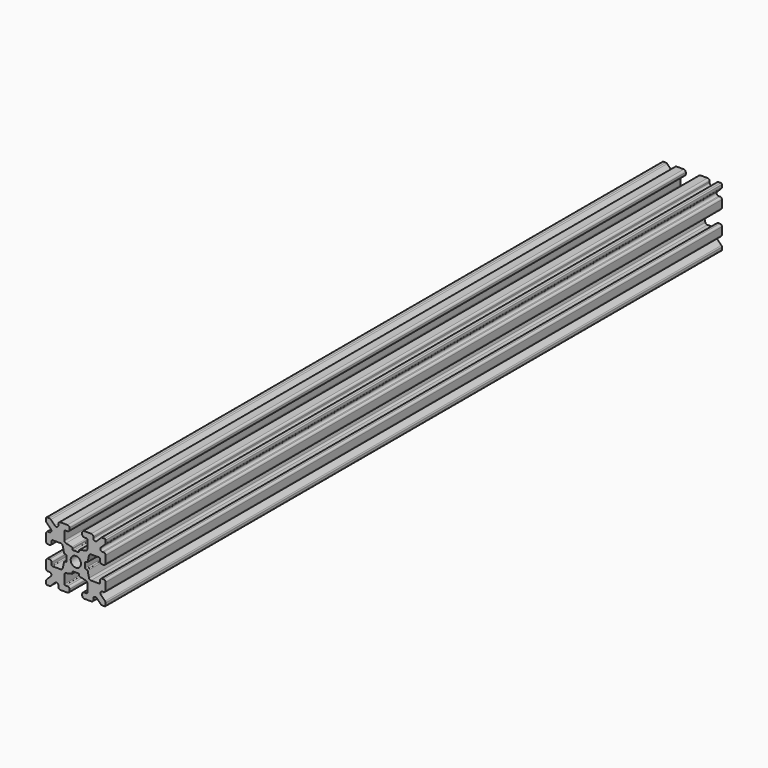
from build123d import *

# Parameters (mm, degrees)
F0_R     = 1.3
F1_DEPTH = 97


with BuildPart() as f1:
    # F0 (on Front) → F1 (new body, symmetric)
    with BuildSketch(Plane.XZ):
        with BuildLine():
            ThreePointArc((0.6255, -2.347065), (0.766921, -2.405643), (0.8255, -2.547065))
            Line((0.8255, -2.547065), (0.8255, -2.774891))
            ThreePointArc((0.8255, -2.774891), (0.869378, -2.899894), (0.981758, -2.970049))
            Line((0.981758, -2.970049), (2.509356, -3.312442))
            ThreePointArc((2.509356, -3.312442), (2.790306, -3.487829), (2.9, -3.800337))
            Line((2.9, -3.800337), (2.9, -5.9))
            ThreePointArc((2.9, -5.9), (2.841421, -6.041421), (2.7, -6.1))
            Line((2.7, -6.1), (2.1, -6.1))
            ThreePointArc((2.1, -6.1), (1.746447, -6.246447), (1.6, -6.6))
            Line((1.6, -6.6), (1.6, -7))
            ThreePointArc((1.6, -7), (1.746447, -7.353553), (2.1, -7.5))
            Line((2.1, -7.5), (3.9, -7.5))
            ThreePointArc((3.9, -7.5), (4.253553, -7.353553), (4.4, -7))
            Line((4.4, -7), (4.4, -6.667767))
            ThreePointArc((4.4, -6.667767), (4.708658, -6.205827), (5.253553, -6.314214))
            Line((5.253553, -6.314214), (6.292893, -7.353553))
            ThreePointArc((6.292893, -7.353553), (6.455105, -7.46194), (6.646447, -7.5))
            Line((6.646447, -7.5), (7.25, -7.5))
            ThreePointArc((7.25, -7.5), (7.426777, -7.426777), (7.5, -7.25))
            Line((7.5, -7.25), (7.5, -6.646447))
            ThreePointArc((7.5, -6.646447), (7.46194, -6.455105), (7.353553, -6.292893))
            Line((7.353553, -6.292893), (6.314214, -5.253553))
            ThreePointArc((6.314214, -5.253553), (6.205827, -4.708658), (6.667767, -4.4))
            Line((6.667767, -4.4), (7, -4.4))
            ThreePointArc((7, -4.4), (7.353553, -4.253553), (7.5, -3.9))
            Line((7.5, -3.9), (7.5, -2.1))
            ThreePointArc((7.5, -2.1), (7.353553, -1.746447), (7, -1.6))
            Line((7, -1.6), (6.6, -1.6))
            ThreePointArc((6.6, -1.6), (6.246447, -1.746447), (6.1, -2.1))
            Line((6.1, -2.1), (6.1, -2.7))
            ThreePointArc((6.1, -2.7), (6.041421, -2.841421), (5.9, -2.9))
            Line((5.9, -2.9), (3.800337, -2.9))
            ThreePointArc((3.800337, -2.9), (3.487829, -2.790306), (3.312442, -2.509356))
            Line((3.312442, -2.509356), (2.970049, -0.981758))
            ThreePointArc((2.970049, -0.981758), (2.899894, -0.869378), (2.774891, -0.8255))
            Line((2.774891, -0.8255), (2.547065, -0.8255))
            ThreePointArc((2.547065, -0.8255), (2.405643, -0.766921), (2.347065, -0.6255))
            Line((2.347065, -0.6255), (2.347065, 0.6255))
            ThreePointArc((2.347065, 0.6255), (2.405643, 0.766921), (2.547065, 0.8255))
            Line((2.547065, 0.8255), (2.774891, 0.8255))
            ThreePointArc((2.774891, 0.8255), (2.899894, 0.869378), (2.970049, 0.981758))
            Line((2.970049, 0.981758), (3.312442, 2.509356))
            ThreePointArc((3.312442, 2.509356), (3.487829, 2.790306), (3.800337, 2.9))
            Line((3.800337, 2.9), (5.9, 2.9))
            ThreePointArc((5.9, 2.9), (6.041421, 2.841421), (6.1, 2.7))
            Line((6.1, 2.7), (6.1, 2.1))
            ThreePointArc((6.1, 2.1), (6.246447, 1.746447), (6.6, 1.6))
            Line((6.6, 1.6), (7, 1.6))
            ThreePointArc((7, 1.6), (7.353553, 1.746447), (7.5, 2.1))
            Line((7.5, 2.1), (7.5, 3.9))
            ThreePointArc((7.5, 3.9), (7.353553, 4.253553), (7, 4.4))
            Line((7, 4.4), (6.667767, 4.4))
            ThreePointArc((6.667767, 4.4), (6.205827, 4.708658), (6.314214, 5.253553))
            Line((6.314214, 5.253553), (7.353553, 6.292893))
            ThreePointArc((7.353553, 6.292893), (7.46194, 6.455105), (7.5, 6.646447))
            Line((7.5, 6.646447), (7.5, 7.25))
            ThreePointArc((7.5, 7.25), (7.426777, 7.426777), (7.25, 7.5))
            Line((7.25, 7.5), (6.646447, 7.5))
            ThreePointArc((6.646447, 7.5), (6.455105, 7.46194), (6.292893, 7.353553))
            Line((6.292893, 7.353553), (5.253553, 6.314214))
            ThreePointArc((5.253553, 6.314214), (4.708658, 6.205827), (4.4, 6.667767))
            Line((4.4, 6.667767), (4.4, 7))
            ThreePointArc((4.4, 7), (4.253553, 7.353553), (3.9, 7.5))
            Line((3.9, 7.5), (2.1, 7.5))
            ThreePointArc((2.1, 7.5), (1.746447, 7.353553), (1.6, 7))
            Line((1.6, 7), (1.6, 6.6))
            ThreePointArc((1.6, 6.6), (1.746447, 6.246447), (2.1, 6.1))
            Line((2.1, 6.1), (2.7, 6.1))
            ThreePointArc((2.7, 6.1), (2.841421, 6.041421), (2.9, 5.9))
            Line((2.9, 5.9), (2.9, 3.800337))
            ThreePointArc((2.9, 3.800337), (2.790306, 3.487829), (2.509356, 3.312442))
            Line((2.509356, 3.312442), (0.981758, 2.970049))
            ThreePointArc((0.981758, 2.970049), (0.869378, 2.899894), (0.8255, 2.774891))
            Line((0.8255, 2.774891), (0.8255, 2.547065))
            ThreePointArc((0.8255, 2.547065), (0.766921, 2.405643), (0.6255, 2.347065))
            Line((0.6255, 2.347065), (-0.6255, 2.347065))
            ThreePointArc((-0.6255, 2.347065), (-0.766921, 2.405643), (-0.8255, 2.547065))
            Line((-0.8255, 2.547065), (-0.8255, 2.774891))
            ThreePointArc((-0.8255, 2.774891), (-0.869378, 2.899894), (-0.981758, 2.970049))
            Line((-0.981758, 2.970049), (-2.509356, 3.312442))
            ThreePointArc((-2.509356, 3.312442), (-2.790306, 3.487829), (-2.9, 3.800337))
            Line((-2.9, 3.800337), (-2.9, 5.9))
            ThreePointArc((-2.9, 5.9), (-2.841421, 6.041421), (-2.7, 6.1))
            Line((-2.7, 6.1), (-2.1, 6.1))
            ThreePointArc((-2.1, 6.1), (-1.746447, 6.246447), (-1.6, 6.6))
            Line((-1.6, 6.6), (-1.6, 7))
            ThreePointArc((-1.6, 7), (-1.746447, 7.353553), (-2.1, 7.5))
            Line((-2.1, 7.5), (-3.9, 7.5))
            ThreePointArc((-3.9, 7.5), (-4.253553, 7.353553), (-4.4, 7))
            Line((-4.4, 7), (-4.4, 6.667767))
            ThreePointArc((-4.4, 6.667767), (-4.708658, 6.205827), (-5.253553, 6.314214))
            Line((-5.253553, 6.314214), (-6.292893, 7.353553))
            ThreePointArc((-6.292893, 7.353553), (-6.455105, 7.46194), (-6.646447, 7.5))
            Line((-6.646447, 7.5), (-7.25, 7.5))
            ThreePointArc((-7.25, 7.5), (-7.426777, 7.426777), (-7.5, 7.25))
            Line((-7.5, 7.25), (-7.5, 6.646447))
            ThreePointArc((-7.5, 6.646447), (-7.46194, 6.455105), (-7.353553, 6.292893))
            Line((-7.353553, 6.292893), (-6.314214, 5.253553))
            ThreePointArc((-6.314214, 5.253553), (-6.205827, 4.708658), (-6.667767, 4.4))
            Line((-6.667767, 4.4), (-7, 4.4))
            ThreePointArc((-7, 4.4), (-7.353553, 4.253553), (-7.5, 3.9))
            Line((-7.5, 3.9), (-7.5, 2.1))
            ThreePointArc((-7.5, 2.1), (-7.353553, 1.746447), (-7, 1.6))
            Line((-7, 1.6), (-6.6, 1.6))
            ThreePointArc((-6.6, 1.6), (-6.246447, 1.746447), (-6.1, 2.1))
            Line((-6.1, 2.1), (-6.1, 2.7))
            ThreePointArc((-6.1, 2.7), (-6.041421, 2.841421), (-5.9, 2.9))
            Line((-5.9, 2.9), (-3.800337, 2.9))
            ThreePointArc((-3.800337, 2.9), (-3.487829, 2.790306), (-3.312442, 2.509356))
            Line((-3.312442, 2.509356), (-2.970049, 0.981758))
            ThreePointArc((-2.970049, 0.981758), (-2.899894, 0.869378), (-2.774891, 0.8255))
            Line((-2.774891, 0.8255), (-2.547065, 0.8255))
            ThreePointArc((-2.547065, 0.8255), (-2.405643, 0.766921), (-2.347065, 0.6255))
            Line((-2.347065, 0.6255), (-2.347065, -0.6255))
            ThreePointArc((-2.347065, -0.6255), (-2.405643, -0.766921), (-2.547065, -0.8255))
            Line((-2.547065, -0.8255), (-2.774891, -0.8255))
            ThreePointArc((-2.774891, -0.8255), (-2.899894, -0.869378), (-2.970049, -0.981758))
            Line((-2.970049, -0.981758), (-3.312442, -2.509356))
            ThreePointArc((-3.312442, -2.509356), (-3.487829, -2.790306), (-3.800337, -2.9))
            Line((-3.800337, -2.9), (-5.9, -2.9))
            ThreePointArc((-5.9, -2.9), (-6.041421, -2.841421), (-6.1, -2.7))
            Line((-6.1, -2.7), (-6.1, -2.1))
            ThreePointArc((-6.1, -2.1), (-6.246447, -1.746447), (-6.6, -1.6))
            Line((-6.6, -1.6), (-7, -1.6))
            ThreePointArc((-7, -1.6), (-7.353553, -1.746447), (-7.5, -2.1))
            Line((-7.5, -2.1), (-7.5, -3.9))
            ThreePointArc((-7.5, -3.9), (-7.353553, -4.253553), (-7, -4.4))
            Line((-7, -4.4), (-6.667767, -4.4))
            ThreePointArc((-6.667767, -4.4), (-6.205827, -4.708658), (-6.314214, -5.253553))
            Line((-6.314214, -5.253553), (-7.353553, -6.292893))
            ThreePointArc((-7.353553, -6.292893), (-7.46194, -6.455105), (-7.5, -6.646447))
            Line((-7.5, -6.646447), (-7.5, -7.25))
            ThreePointArc((-7.5, -7.25), (-7.426777, -7.426777), (-7.25, -7.5))
            Line((-7.25, -7.5), (-6.646447, -7.5))
            ThreePointArc((-6.646447, -7.5), (-6.455105, -7.46194), (-6.292893, -7.353553))
            Line((-6.292893, -7.353553), (-5.253553, -6.314214))
            ThreePointArc((-5.253553, -6.314214), (-4.708658, -6.205827), (-4.4, -6.667767))
            Line((-4.4, -6.667767), (-4.4, -7))
            ThreePointArc((-4.4, -7), (-4.253553, -7.353553), (-3.9, -7.5))
            Line((-3.9, -7.5), (-2.1, -7.5))
            ThreePointArc((-2.1, -7.5), (-1.746447, -7.353553), (-1.6, -7))
            Line((-1.6, -7), (-1.6, -6.6))
            ThreePointArc((-1.6, -6.6), (-1.746447, -6.246447), (-2.1, -6.1))
            Line((-2.1, -6.1), (-2.7, -6.1))
            ThreePointArc((-2.7, -6.1), (-2.841421, -6.041421), (-2.9, -5.9))
            Line((-2.9, -5.9), (-2.9, -3.800337))
            ThreePointArc((-2.9, -3.800337), (-2.790306, -3.487829), (-2.509356, -3.312442))
            Line((-2.509356, -3.312442), (-0.981758, -2.970049))
            ThreePointArc((-0.981758, -2.970049), (-0.869378, -2.899894), (-0.8255, -2.774891))
            Line((-0.8255, -2.774891), (-0.8255, -2.547065))
            ThreePointArc((-0.8255, -2.547065), (-0.766921, -2.405643), (-0.6255, -2.347065))
            Line((-0.6255, -2.347065), (0.6255, -2.347065))
        make_face()
        Circle(F0_R, mode=Mode.SUBTRACT)
    extrude(amount=F1_DEPTH, both=True)


solid = f1.part
